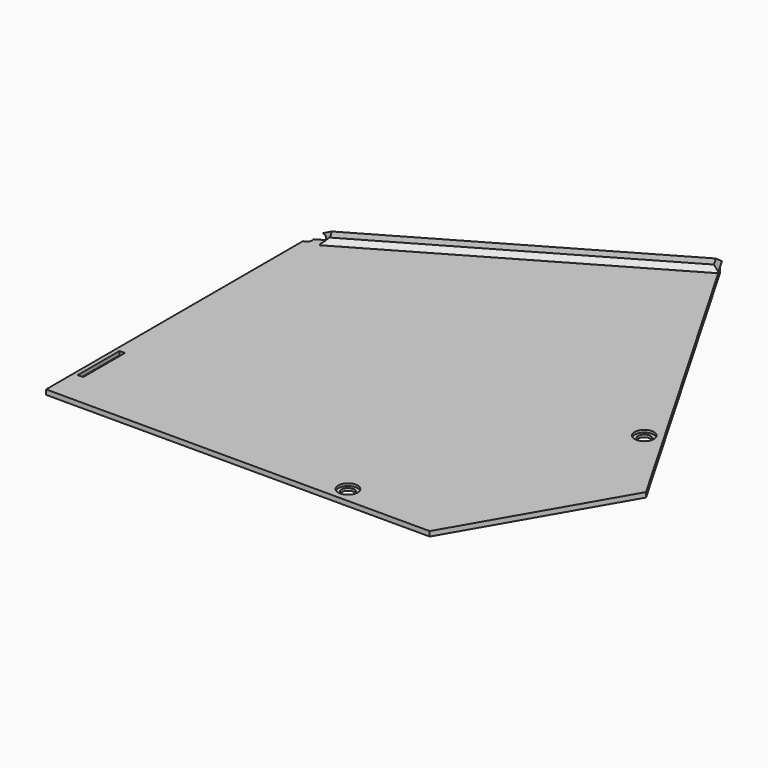
from build123d import *

# Parameters (mm, degrees)
SKETCH002_R             = 2.6
PAD001_DEPTH            = 2
PAD002_DEPTH            = 2
POCKET003_DEPTH         = 2.201
PAD003_DEPTH            = 2.2
POCKET004_DEPTH         = 4.001
SKETCH006_R             = 17.1
SKETCH006_R_2           = 14.9
POCKET002_DEPTH         = 1
CHAMFER002_SIZE         = 0.4
CHAMFER_SIZE            = 1.99
SKETCH004_R             = 2.2
POCKET_DEPTH            = 4.001
SKETCH005_R             = 6.2
POCKET001_DEPTH         = 2.001
SKETCH010_R             = 4
POCKET005_DEPTH         = 1
CHAMFER001_SIZE         = 1.7
BODY003_PLACEMENT_ANGLE = 240


with BuildPart() as part:
    # Sketch002 → Pad001 (new body)
    with BuildSketch(Plane.XY):
        Polygon((-116.824546, 67.621888), (-37.5, 205.016032), (37.5, 205.016032), (116.824546, 67.621888), (0, 0.173205), align=None)
        with Locations((-51.370835, 167.991041)):
            Circle(SKETCH002_R, mode=Mode.SUBTRACT)
        with Locations((51.370835, 167.991041)):
            Circle(SKETCH002_R, mode=Mode.SUBTRACT)
    extrude(amount=PAD001_DEPTH)

    # Sketch003 → Pad002 (join)
    with BuildSketch(Plane.XY.offset(2)):
        Polygon((-118.899546, 64.027883), (-114.899546, 70.956086), (-0.173205, 4.718802), (-0.173205, 0.1), (-4.173205, -2.209401), align=None)
    extrude(amount=PAD002_DEPTH)

    # Sketch007 → Pocket003 (cut, through all)
    with BuildSketch(Plane.XY.offset(2.2)):
        Polygon((-116.824546, 67.621888), (0, 0.173205), (-4.173205, -2.209401), (-118.899546, 64.027883), align=None)
    extrude(amount=-POCKET003_DEPTH, mode=Mode.SUBTRACT)

    # Sketch008 → Pad003 (join)
    with BuildSketch(Plane.XY):
        Polygon((-104.909165, 58.259933), (-87.588657, 48.259933), (-88.588657, 46.527883), (-105.909165, 56.527883), align=None)
    extrude(amount=PAD003_DEPTH)

    # Sketch009 → Pocket004 (cut, through all)
    with BuildSketch(Plane.XY):
        Polygon((83.830836, 53.168669), (84.960836, 51.211452), (103.666985, 62.011452), (102.536985, 63.968669), align=None)
    extrude(amount=POCKET004_DEPTH, mode=Mode.SUBTRACT)

    # Sketch006 → Pocket002 (cut)
    with BuildSketch(Plane.XY):
        Circle(SKETCH006_R)
        Circle(SKETCH006_R_2, mode=Mode.SUBTRACT)
    extrude(amount=POCKET002_DEPTH, mode=Mode.SUBTRACT)

    # Chamfer002
    chamfer002_edges = [part.edges().sort_by_distance(p)[0] for p in [
        (-96.248911, 53.259933, 0),
        (-88.088657, 47.393908, 0),
        (-97.248911, 51.527883, 0),
        (-105.409165, 57.393908, 0),
        (94.313911, 56.611452, 0),
        (103.101985, 62.99006, 0),
        (93.183911, 58.568669, 0),
        (84.395836, 52.19006, 0),
        (0, 14.9, 0),
        (0, 17.1, 0),
    ]]
    chamfer(chamfer002_edges, length=CHAMFER002_SIZE)

    # Chamfer
    chamfer_edges = [part.edges().sort_by_distance(p)[0] for p in [
        (-57.536375, 37.837444, 4),
    ]]
    chamfer(chamfer_edges, length=CHAMFER_SIZE)

    # Sketch004 → Pocket (cut, through all)
    with BuildSketch(Plane.XY):
        Circle(SKETCH004_R)
    extrude(amount=POCKET_DEPTH, mode=Mode.SUBTRACT)

    # Sketch005 → Pocket001 (cut, through all)
    with BuildSketch(Plane.XY.offset(2)):
        Circle(SKETCH005_R)
    extrude(amount=POCKET001_DEPTH, mode=Mode.SUBTRACT)

    # Sketch010 → Pocket005 (cut)
    with BuildSketch(Plane.XY.offset(2)):
        with Locations((-51.370835, 167.991041)):
            Circle(SKETCH010_R)
        with Locations((51.370835, 167.991041)):
            Circle(SKETCH010_R)
    extrude(amount=-POCKET005_DEPTH, mode=Mode.SUBTRACT)

    # Chamfer001
    chamfer001_edges = [part.edges().sort_by_distance(p)[0] for p in [
        (-5.849077, 2.056283, 4),
        (-62.500992, 31.466162, 4),
        (-117.397046, 66.630289, 4),
    ]]
    chamfer(chamfer001_edges, length=CHAMFER001_SIZE)


with BuildPart() as part_1:
    # Body003 placement: moved
    add(part.part.rotate(Axis((0, 0, 0), (0, 0, 1)), BODY003_PLACEMENT_ANGLE))


solid = part_1.part
